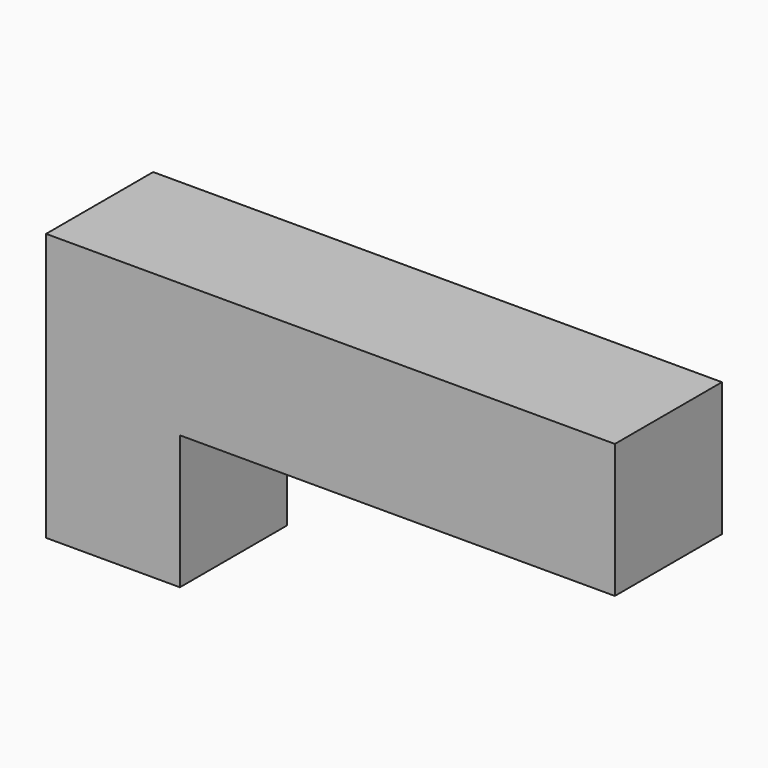
from build123d import *

# Parameters (mm, degrees)
F0_W     = 200
F0_H     = 200
F0_W_2   = 162.2
F0_H_2   = 162.2
F1_DEPTH = 200
F2_W     = 200
F2_H     = 200
F3_DEPTH = 200
F4_W     = 200
F4_H     = 200
F5_DEPTH = 650


with BuildPart() as f1:
    # F0 (on Top) → F1 (new body)
    with BuildSketch(Plane.XY):
        Rectangle(F0_W, F0_H)
        Rectangle(F0_W_2, F0_H_2, mode=Mode.SUBTRACT)
    extrude(amount=F1_DEPTH)

    # F2 (on face) → F3 (join)
    with BuildSketch(Plane.XY.offset(200)):
        Rectangle(F2_W, F2_H)
    extrude(amount=F3_DEPTH)

    # F4 (on face) → F5 (join)
    with BuildSketch(Plane.YZ.offset(100)):
        with Locations((0, 300)):
            Rectangle(F4_W, F4_H)
    extrude(amount=F5_DEPTH)


solid = f1.part
